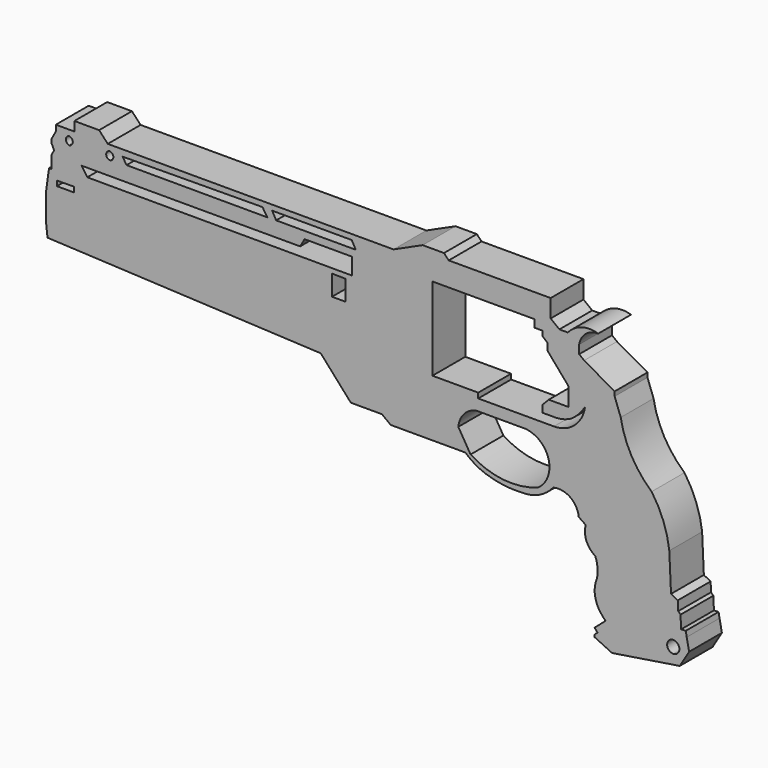
from build123d import *

# Parameters (mm, degrees)
F1_DEPTH = 8.636


with BuildPart() as f1:
    # F0 (on Front) → F1 (new body)
    with BuildSketch(Plane.XZ):
        with BuildLine():
            Line((-67.888543, 14.229136), (-67.888543, 8.327846))
            Line((-67.888543, 8.327846), (-67.590117, 5.694489))
            Line((-67.590117, 5.694489), (-10.072526, 2.980128))
            Line((-10.072526, 2.980128), (-3.732844, -4.12088))
            Line((-3.732844, -4.12088), (2.804628, -4.12088))
            Line((2.804628, -4.12088), (4.660426, -5.51241))
            Line((4.660426, -5.51241), (20.36539, -5.51241))
            ThreePointArc((20.36539, -5.51241), (22.326214, -6.957719), (24.524612, -8.006907))
            ThreePointArc((24.524612, -8.006907), (28.372895, -8.935837), (32.329973, -9.052986))
            ThreePointArc((32.329973, -9.052986), (35.941526, -8.275719), (38.847856, -5.995215))
            ThreePointArc((38.847856, -5.995215), (42.405349, -6.590703), (44.239189, -9.696728))
            Line((44.239189, -9.696728), (45.717698, -10.69943))
            ThreePointArc((45.717698, -10.69943), (45.850918, -13.592314), (47.728516, -15.797116))
            ThreePointArc((47.728516, -15.797116), (48.186683, -17.808436), (48.07616, -19.868318))
            ThreePointArc((48.07616, -19.868318), (47.693475, -23.337022), (49.28254, -26.443986))
            ThreePointArc((49.28254, -26.443986), (49.565033, -26.802415), (49.898703, -27.113765))
            Line((49.898703, -27.113765), (63.92391, -23.246003))
            Line((63.92391, -23.246003), (63.666757, -17.629698))
            Line((63.666757, -17.629698), (63.305743, -9.745057))
            ThreePointArc((63.305743, -9.745057), (62.05497, -4.640389), (59.587408, 0))
            ThreePointArc((59.587408, 0), (55.333048, 5.257953), (53.080335, 11.635331))
            Line((53.080335, 11.635331), (51.798906, 15.11586))
            Line((51.798906, 15.11586), (46.942841, 15.11586))
            ThreePointArc((46.942841, 15.11586), (46.45979, 13.035678), (45.55238, 11.102519))
            ThreePointArc((45.55238, 11.102519), (43.355932, 7.020729), (39.016269, 5.392008))
            Line((39.016269, 5.392008), (23.084078, 5.392008))
            Line((23.084078, 5.392008), (23.084078, 6.470653))
            Line((23.084078, 6.470653), (15.109499, 6.470653))
            Line((15.109499, 6.470653), (13.445796, 6.470653))
            Line((13.445796, 6.470653), (13.445796, 11.590629))
            Line((13.445796, 11.590629), (13.445796, 18.615682))
            Line((13.445796, 18.615682), (7.789209, 18.615682))
            Line((7.789209, 18.615682), (-7.699287, 18.537793))
            Line((-7.699287, 18.537793), (-4.879672, 18.475959))
            Line((-4.879672, 18.475959), (-4.879672, 14.229136))
            Line((-4.879672, 14.229136), (-7.699287, 14.229136))
            Line((-7.699287, 14.229136), (-67.888543, 14.229136))
        make_face()
        with BuildLine():
            ThreePointArc((18.888429, -1.232992), (20.03881, 1.476523), (22.555076, 3.004023))
            Line((22.555076, 3.004023), (28.890261, 3.004023))
            Line((28.890261, 3.004023), (32.984652, 3.004023))
            ThreePointArc((32.984652, 3.004023), (33.457255, 2.948329), (33.923268, 2.851961))
            ThreePointArc((33.923268, 2.851961), (37.989765, -1.51717), (35.673525, -7.018146))
            ThreePointArc((35.673525, -7.018146), (28.392646, -7.940351), (21.466842, -5.51241))
            Line((21.466842, -5.51241), (18.888429, -1.232992))
        make_face(mode=Mode.SUBTRACT)
        Polygon((-67.26525, 18.70371), (-67.888543, 14.229136), (-7.699287, 14.229136), (-7.699287, 18.537793), (-66.731323, 18.629336), align=None)
        Polygon((-65.611368, 15.894235), (-65.609761, 16.930796), (-61.958702, 16.97587), (-61.958702, 15.888571), align=None, mode=Mode.SUBTRACT)
        Polygon((-66.731323, 21.379774), (-66.731323, 18.629336), (-7.699287, 18.537793), (7.789209, 18.615682), (13.445796, 18.615682), (13.445796, 20.43255), (13.445796, 23.939529), (11.8609, 24.011148), (10.443351, 22.458594), (3.288107, 22.458594), (2.613084, 23.025269), (-3.514589, 23.025269), (-3.514589, 19.527677), (-59.21186, 19.614049), (-60.399957, 21.379774), align=None)
        Polygon((-66.20314, 22.302656), (-66.731323, 21.379774), (-60.399957, 21.379774), (-14.40332, 21.379774), (-13.479427, 23.025269), (-3.514589, 23.025269), (2.613084, 23.025269), (2.580326, 23.198023), (-17.181331, 23.198023), (-17.794525, 22.302656), align=None)
        with BuildLine():
            Line((-66.731323, 23.473777), (-66.20314, 22.302656))
            Line((-66.20314, 22.302656), (-17.794525, 22.302656))
            Line((-17.794525, 22.302656), (-17.181331, 23.198023))
            Line((-17.181331, 23.198023), (2.580326, 23.198023))
            Line((2.580326, 23.198023), (2.613084, 23.025269))
            Line((2.613084, 23.025269), (3.288107, 22.458594))
            Line((3.288107, 22.458594), (10.443351, 22.458594))
            Line((10.443351, 22.458594), (11.8609, 24.011148))
            Line((11.8609, 24.011148), (13.445796, 23.939529))
            Line((13.445796, 23.939529), (34.916848, 23.939529))
            Line((34.916848, 23.939529), (34.916848, 22.35744))
            Line((34.916848, 22.35744), (36.640268, 22.35744))
            Line((36.640268, 22.35744), (36.640268, 21.295426))
            Line((36.640268, 21.295426), (37.662946, 20.430082))
            Line((37.662946, 20.430082), (37.662946, 18.97577))
            Line((37.662946, 18.97577), (42.068332, 13.861337))
            Line((42.068332, 13.861337), (42.068332, 9.9928))
            Line((42.068332, 9.9928), (37.926942, 9.9928))
            Line((37.926942, 9.9928), (36.640268, 8.652356))
            Line((36.640268, 8.652356), (36.640268, 7.140663))
            Line((36.640268, 7.140663), (39.016269, 7.140663))
            ThreePointArc((39.016269, 7.140663), (40.885778, 7.338312), (42.642005, 8.008977))
            ThreePointArc((42.642005, 8.008977), (44.260743, 9.401881), (45.55238, 11.102519))
            ThreePointArc((45.55238, 11.102519), (46.45979, 13.035678), (46.942841, 15.11586))
            Line((46.942841, 15.11586), (51.798906, 15.11586))
            Line((51.798906, 15.11586), (51.798906, 16.040822))
            Line((51.798906, 16.040822), (45.381963, 19.682869))
            Line((45.381963, 19.682869), (42.202402, 18.006373))
            Line((42.202402, 18.006373), (40.930577, 18.006373))
            Line((40.930577, 18.006373), (38.329113, 19.682869))
            Line((38.329113, 19.682869), (38.329113, 25.174845))
            Line((38.329113, 25.174845), (38.329113, 28.956141))
            Line((38.329113, 28.956141), (16.867928, 28.956141))
            Line((16.867928, 28.956141), (15.879637, 29.998008))
            Line((15.879637, 29.998008), (15.187833, 29.998008))
            Line((15.187833, 29.998008), (11.387558, 29.998008))
            Line((11.387558, 29.998008), (5.248655, 27.211197))
            Line((5.248655, 27.211197), (-54.899268, 27.211197))
            Line((-54.899268, 27.211197), (-61.934408, 27.211197))
            Line((-61.934408, 27.211197), (-65.839738, 27.211197))
            Line((-65.839738, 27.211197), (-65.839738, 25.936976))
            Line((-65.839738, 25.936976), (-66.731323, 24.311243))
            Line((-66.731323, 24.311243), (-66.731323, 23.473777))
        make_face()
        with BuildLine():
            ThreePointArc((-63.038021, 24.306566), (-63.715772, 25.131149), (-63.090824, 25.996437))
            ThreePointArc((-63.090824, 25.996437), (-62.267006, 25.176418), (-63.038021, 24.306566))
        make_face(mode=Mode.SUBTRACT)
        with BuildLine():
            ThreePointArc((-54.377425, 24.306566), (-55.235893, 25.101148), (-54.483041, 25.996437))
            ThreePointArc((-54.483041, 25.996437), (-53.73549, 25.194922), (-54.377425, 24.306566))
        make_face(mode=Mode.SUBTRACT)
        Polygon((-50.948696, 24.560757), (-51.789809, 25.860662), (-22.338423, 26.090056), (-21.319148, 24.51481), align=None, mode=Mode.SUBTRACT)
        Polygon((-2.707183, 24.560757), (-19.452998, 24.560757), (-20.294111, 26.090056), (-3.548297, 26.090056), align=None, mode=Mode.SUBTRACT)
        Polygon((-61.934408, 29.162308), (-61.934408, 27.211197), (-54.899268, 27.211197), (-56.723192, 29.162308), align=None)
        Polygon((63.92391, -23.246003), (49.898703, -27.113765), (47.567636, -29.108122), (48.197687, -29.844546), (47.567636, -30.38359), (60.629882, -27.680274), (61.969539, -25.573865), (66.964559, -24.576284), (66.767075, -23.464401), (65.788557, -23.509205), (65.665543, -20.822546), (65.180847, -20.337525), (65.090388, -18.361883), (63.666757, -17.629698), align=None)
        Polygon((42.202402, 18.006373), (45.381963, 19.682869), (44.331331, 20.500985), (40.165214, 23.745094), (38.329113, 25.174845), (38.329113, 19.682869), (40.930577, 18.006373), align=None)
        with BuildLine():
            Line((40.165214, 23.745094), (44.331331, 20.500985))
            Line((44.331331, 20.500985), (44.331331, 22.302926))
            ThreePointArc((44.331331, 22.302926), (45.705089, 24.725057), (48.342105, 25.619529))
            ThreePointArc((48.342105, 25.619529), (44.854467, 25.661592), (41.94029, 23.745094))
            Line((41.94029, 23.745094), (40.165214, 23.745094))
        make_face()
        Polygon((60.629882, -27.680274), (47.567636, -30.38359), (47.567636, -30.86937), (51.254567, -32.621317), (65.507576, -30.38359), (67.471333, -27.113765), (66.964559, -24.576284), (61.969539, -25.573865), align=None)
        with BuildLine():
            ThreePointArc((64.190447, -28.582929), (62.846638, -27.292852), (64.190447, -26.002776))
            ThreePointArc((64.190447, -26.002776), (65.423903, -27.292852), (64.190447, -28.582929))
        make_face(mode=Mode.SUBTRACT)
    extrude(amount=F1_DEPTH)


solid = f1.part
